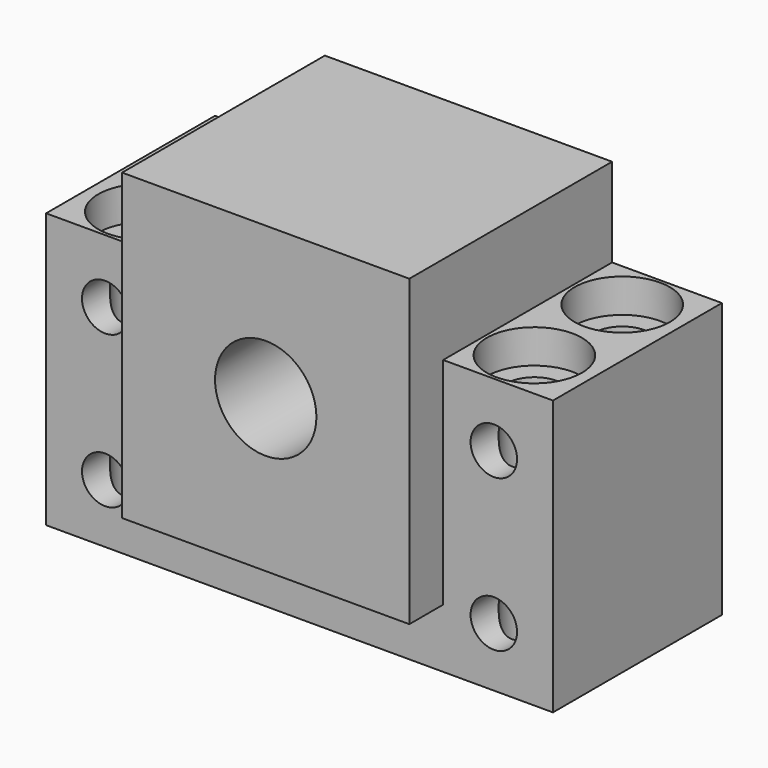
from build123d import *

# Parameters (mm, degrees)
F0_R           = 6
F1_DEPTH       = 25
F3_D           = 6.6
F3_CBORE_D     = 11.25
F3_CBORE_DEPTH = 4
F4_D           = 5.5
F5_W           = 34
F5_H           = 36
F5_R           = 6
F6_DEPTH       = 5


with BuildPart() as f1:
    # F0 (on Front) → F1 (new body)
    with BuildSketch(Plane.XZ):
        Polygon((30, -16.25), (30, 16.25), (17, 16.25), (17, 26.75), (-17, 26.75), (-17, 16.25), (-30, 16.25), (-30, -16.25), align=None)
        with Locations((0, 8.75)):
            Circle(F0_R, mode=Mode.SUBTRACT)
    extrude(amount=F1_DEPTH)

    # F3 (through all)
    with Locations(Plane.XY.offset(16.25)):
        with Locations((-23, -6), (23, -6), (23, -19), (-23, -19)):
            CounterBoreHole(F3_D / 2, F3_CBORE_D / 2, F3_CBORE_DEPTH)

    # F4 (through all)
    with Locations(Plane(origin=(0, 0, 0), x_dir=(1, 0, 0), z_dir=(0, 1, 0))):
        with Locations((23, -8.75), (23, 9.25), (-23, 9.25), (-23, -8.75)):
            Hole(F4_D / 2)

    # F5 (on face) → F6 (join)
    with BuildSketch(Plane.XZ.offset(25)):
        with Locations((0, 8.75)):
            Rectangle(F5_W, F5_H)
        with Locations((0, 8.75)):
            Circle(F5_R, mode=Mode.SUBTRACT)
    extrude(amount=F6_DEPTH)


solid = f1.part
